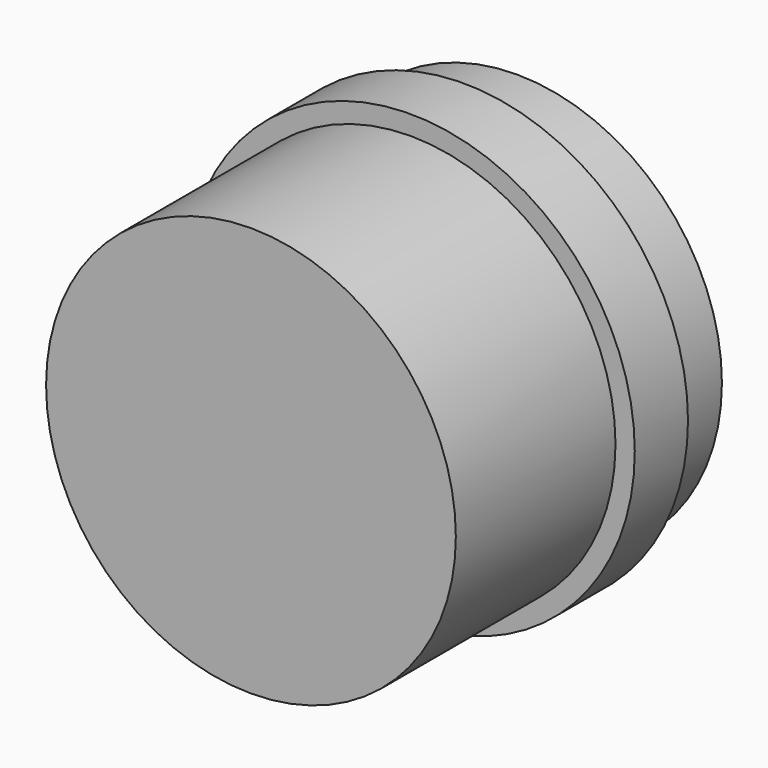
from build123d import *

# Parameters (mm, degrees)
F0_R     = 16.85
F1_DEPTH = 25
F2_R     = 22.410556
F2_R_2   = 15.4
F3_DEPTH = 15
F4_R     = 22.657316
F4_R_2   = 15.4
F5_DEPTH = 5


with BuildPart() as f1:
    # F0 (on Front) → F1 (new body)
    with BuildSketch(Plane.XZ):
        Circle(F0_R)
    extrude(amount=-F1_DEPTH)

    # F2 (on Front) → F3 (cut)
    with BuildSketch(Plane.XZ):
        Circle(F2_R)
        Circle(F2_R_2, mode=Mode.SUBTRACT)
    extrude(amount=-F3_DEPTH, mode=Mode.SUBTRACT)

    # F4 (on face) → F5 (cut)
    with BuildSketch(Plane(origin=(0, 25, 0), x_dir=(-1, 0, 0), z_dir=(0, 1, 0))):
        Circle(F4_R)
        Circle(F4_R_2, mode=Mode.SUBTRACT)
    extrude(amount=-F5_DEPTH, mode=Mode.SUBTRACT)


solid = f1.part
